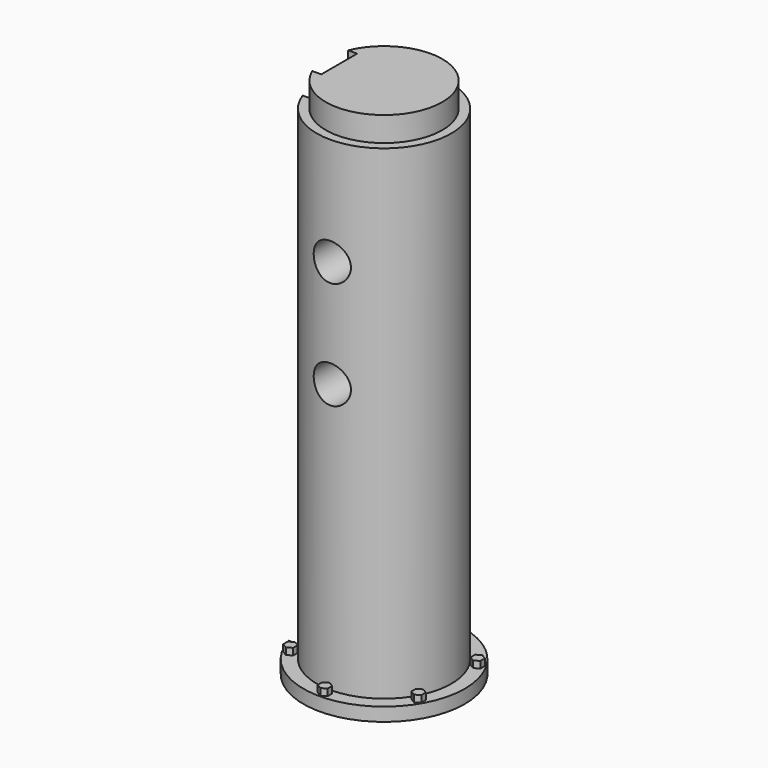
from build123d import *

# Parameters (mm, degrees)
SKETCH_R           = 18
PAD_DEPTH          = 3
SKETCH001_R        = 15
PAD001_DEPTH       = 108
SKETCH002_R        = 9.5
PAD002_DEPTH       = 2.5
SKETCH003_R        = 13
PAD003_DEPTH       = 5.5
PAD004_DEPTH       = 1.5
POLARPATTERN_COUNT = 6
SKETCH009_W        = 8
SKETCH009_H        = 10
POCKET_DEPTH       = 118
SKETCH010_R        = 4.15
POCKET001_DEPTH    = 10
SKETCH011_R        = 4.15
POCKET002_DEPTH    = 10
SKETCH012_W        = 10
SKETCH012_H        = 32.3
POCKET003_DEPTH    = 14


with BuildPart() as part:
    # Sketch → Pad (new body)
    with BuildSketch(Plane.XY):
        Circle(SKETCH_R)
    extrude(amount=PAD_DEPTH)

    # Sketch001 (on Face3 of Pad) → Pad001 (join)
    with BuildSketch(Plane.XY.offset(3)):
        Circle(SKETCH001_R)
    extrude(amount=PAD001_DEPTH)

    # Sketch002 (on Face2 of Pad001) → Pad002 (join)
    with BuildSketch(Plane(origin=(0, 0, 0), x_dir=(1, 0, 0), z_dir=(0, 0, -1))):
        Circle(SKETCH002_R)
    extrude(amount=PAD002_DEPTH)

    # Sketch003 (on Face7 of Pad002) → Pad003 (join)
    with BuildSketch(Plane.XY.offset(111)):
        Circle(SKETCH003_R)
    extrude(amount=PAD003_DEPTH)

    # Sketch008 (on Face3 of Pad003) → Pad004 (join)
    with BuildSketch(Plane.XY.offset(3)):
        Polygon((-1.11579, 17.121659), (-0.012041, 17.758909), (1.091708, 17.121659), (1.091708, 15.84716), (-0.012041, 15.209911), (-1.11579, 15.84716), align=None)
    pad004 = extrude(amount=PAD004_DEPTH)

    # PolarPattern: Pad004 ×6 about axis
    polarpattern_axis = Axis((0, 0, 3), (0, 0, 1))
    for i in range(1, POLARPATTERN_COUNT):
        add(pad004.rotate(polarpattern_axis, i * 360 / POLARPATTERN_COUNT))

    # Sketch009 (on Face2 of PolarPattern) → Pocket (cut)
    with BuildSketch(Plane(origin=(0, 0, 0), x_dir=(1, 0, 0), z_dir=(0, 0, -1))):
        with Locations((-14, 0)):
            Rectangle(SKETCH009_W, SKETCH009_H)
    extrude(amount=-POCKET_DEPTH, mode=Mode.SUBTRACT)

    # Sketch010 (on DatumPlane) → Pocket001 (cut)
    with BuildSketch(Plane.XZ.offset(15)):
        with Locations((0, 87)):
            Circle(SKETCH010_R)
    extrude(amount=-POCKET001_DEPTH, mode=Mode.SUBTRACT)

    # Sketch011 (on DatumPlane) → Pocket002 (cut)
    with BuildSketch(Plane.XZ.offset(15)):
        with Locations((0, 63)):
            Circle(SKETCH011_R)
    extrude(amount=-POCKET002_DEPTH, mode=Mode.SUBTRACT)

    # Sketch012 (on Face7 of Pocket002) → Pocket003 (cut)
    with BuildSketch(Plane(origin=(-10, 0, 0), x_dir=(0, -1, 0), z_dir=(-1, 0, 0))):
        with Locations((0, 75)):
            Rectangle(SKETCH012_W, SKETCH012_H)
    extrude(amount=-POCKET003_DEPTH, mode=Mode.SUBTRACT)


solid = part.part
